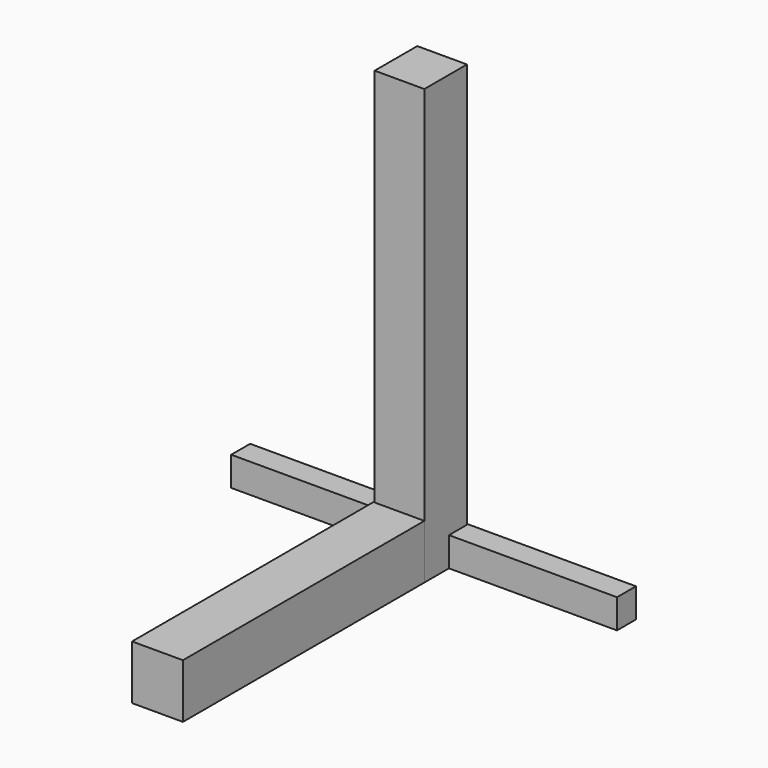
from build123d import *

# Parameters (mm, degrees)
F0_W     = 11.8974833749
F0_H     = 12.7473026514
F1_DEPTH = 104
F2_W     = 12.1807525866
F2_H     = 72.517989669
F3_DEPTH = 13
F4_W     = 40
F4_H     = 5.6654671207
F5_DEPTH = 7
F6_DEPTH = 12.1
F7_DEPTH = 3


with BuildPart() as f1:
    # F0 (on Top) → F1 (new body)
    with BuildSketch(Plane.XY):
        with Locations((-10.339479195, 10.4811154306)):
            Rectangle(F0_W, F0_H)
    extrude(amount=F1_DEPTH)

    # F2 (on Top) → F3 (join)
    with BuildSketch(Plane.XY):
        with Locations((-10.4811156634, -31.868257327)):
            Rectangle(F2_W, F2_H)
    extrude(amount=F3_DEPTH)



with BuildPart() as f5:
    # F4 (on Top) → F5 (new body)
    with BuildSketch(Plane.XY):
        with Locations((15.8340851963, 14.3053061329)):
            Rectangle(F4_W, F4_H)
    extrude(amount=F5_DEPTH)


with BuildPart() as f5b:
    # F4 (on Top) → F5, piece 2 (new body)
    with BuildSketch(Plane.XY):
        with Locations((-36.5130412579, 14.3053061329)):
            Rectangle(F4_W, F4_H)
    extrude(amount=F5_DEPTH)


with BuildPart() as f1_1:
    add(f1.part)
    # F6 (add): a face of the model
    f6_faces = [f5b.part.faces().sort_by_distance(p)[0] for p in [
        (-16.5130412579, 14.3053061329, 3.5),
    ]]

    add(f5b.part)  # F6 merges F5b
    extrude(f6_faces, amount=F6_DEPTH)

    # F7 (add): a face of the model
    f7_faces = [f5.part.faces().sort_by_distance(p)[0] for p in [
        (-4.1659148037, 14.3053061329, 3.5),
    ]]

    add(f5.part)  # F7 merges F5
    extrude(f7_faces, amount=F7_DEPTH)


solid = f1_1.part
